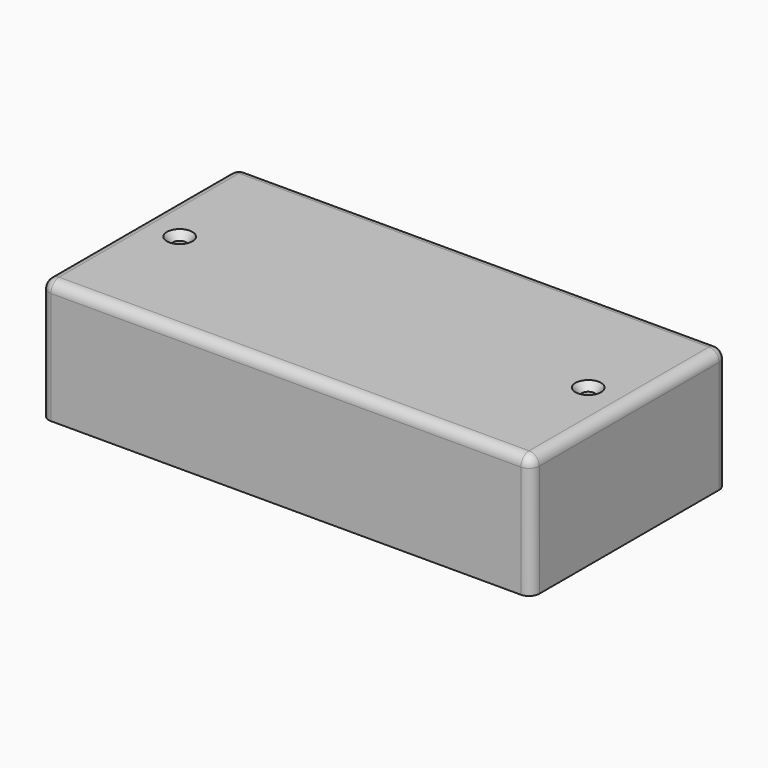
from build123d import *

# Parameters (mm, degrees)
F0_W           = 304.8
F0_H           = 152.4
F1_DEPTH       = 76.2
F3_D           = 7.9375
F3_CSINK_D     = 15.875
F3_CSINK_ANGLE = 85
F4_R           = 6.35
F5_R           = 6.35


with BuildPart() as f1:
    # F0 (on Top) → F1 (new body)
    with BuildSketch(Plane.XY):
        Rectangle(F0_W, F0_H)
    extrude(amount=F1_DEPTH)

    # F3 (through all)
    with Locations(Plane.XY.offset(76.2)):
        with Locations((-127, 0), (127, 0)):
            CounterSinkHole(F3_D / 2, F3_CSINK_D / 2, counter_sink_angle=F3_CSINK_ANGLE)

    # F4
    f4_edges = [f1.edges().sort_by_distance(p)[0] for p in [
        (-152.4, 0, 76.2),
        (152.4, 0, 76.2),
    ]]
    fillet(f4_edges, radius=F4_R)

    # F5
    f5_edges = [f1.edges().sort_by_distance(p)[0] for p in [
        (0, -76.2, 76.2),
        (0, 76.2, 76.2),
    ]]
    fillet(f5_edges, radius=F5_R)


solid = f1.part
